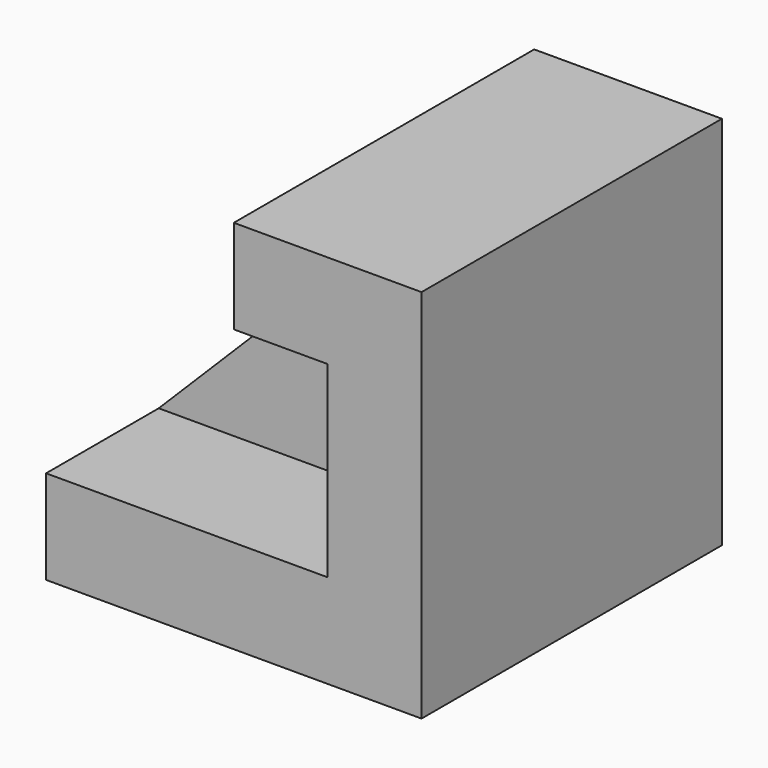
from build123d import *

# Parameters (mm, degrees)
F1_DEPTH = 101.6
F3_DEPTH = 101.854
F5_DEPTH = 25.4
F6_DEPTH = 25.4
F7_DEPTH = 12.7
F8_DEPTH = 12.7


with BuildPart() as f1:
    # F0 (on Front) → F1 (new body)
    with BuildSketch(Plane.XZ):
        Polygon((160.0811270237, -46.4719723254), (160.0811270237, 55.1280276746), (109.2811270237, 55.1280276746), (109.2811270237, 29.7280276746), (134.6811270237, 29.7280276746), (134.6811270237, -21.0719723254), (58.4811270237, -21.0719723254), (58.4811270237, -46.4719723254), align=None)
    extrude(amount=-F1_DEPTH)

    # F2 (on face) → F3 (join)
    with BuildSketch(Plane.XZ):
        Polygon((109.2811270237, 29.7280276746), (58.4811270237, -21.0719723254), (134.6811270237, -21.0719723254), (134.6811270237, 29.7280276746), align=None)
    extrude(amount=-F3_DEPTH)

    # F4 (on face) → F5 (cut)
    with BuildSketch(Plane.XZ):
        Polygon((109.2811270237, 29.7280276746), (58.4811270237, -21.0719723254), (134.6811270237, -21.0719723254), (134.6811270237, 29.7280276746), align=None)
    extrude(amount=-F5_DEPTH, mode=Mode.SUBTRACT)

    # F6 (cut): a face of the model
    f6_faces = [f1.faces().sort_by_distance(p)[0] for p in [
        (107.164460357, 101.854, 0.0946943412),
    ]]
    extrude(f6_faces, amount=-F6_DEPTH, mode=Mode.SUBTRACT)

    # F7 (cut): a face of the model
    f7_faces = [f1.faces().sort_by_distance(p)[0] for p in [
        (107.164460357, 25.4, 0.0946943412),
    ]]
    extrude(f7_faces, amount=-F7_DEPTH, mode=Mode.SUBTRACT)

    # F8 (cut): a face of the model
    f8_faces = [f1.faces().sort_by_distance(p)[0] for p in [
        (107.164460357, 76.454, 0.0946943412),
    ]]
    extrude(f8_faces, amount=-F8_DEPTH, mode=Mode.SUBTRACT)


solid = f1.part
